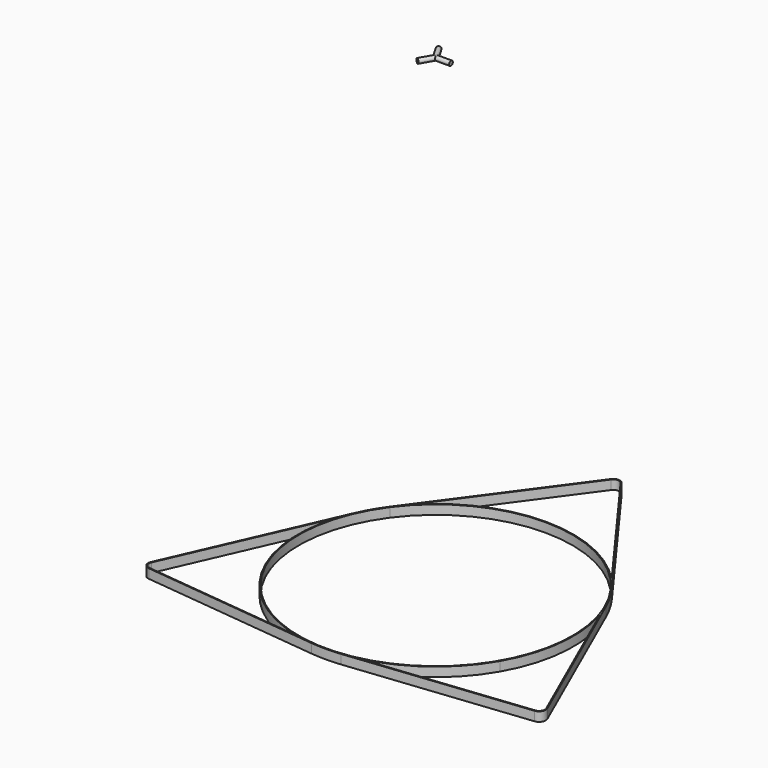
from build123d import *

# Parameters (mm, degrees)
SKETCH002_R      = 5
ARRAY004_COUNT   = 3
EXTRUDE050_DEPTH = 20
ARRAY005_COUNT   = 3


with BuildPart() as array007:
    # Sweep001: sweep along a path in Sketch
    with BuildLine(Plane.XY) as sweep001_path:
        Line((33.067608, 0), (0, 0))
    # Sketch002 → Sweep001 (sweep)
    with BuildSketch(Plane.YZ):
        with Locations((0, 490)):
            Circle(SKETCH002_R)
    sweep(path=sweep001_path.line)

    # Array004: Array007 ×3 about axis
    array004_axis = Axis((0, 0, 0), (0, 0, 1))


with BuildPart() as array007_1:
    add(array007.part)
    for i in range(1, ARRAY004_COUNT):
        add(array007.part.rotate(array004_axis, i * 360 / ARRAY004_COUNT))


with BuildPart() as fusion012:
    # Face006 → Extrude050 (new body)
    with BuildSketch(Plane(origin=(0, 60.26256, -535), x_dir=(0, 1, 0), z_dir=(0, 0, 1))):
        with BuildLine():
            Line((115.74369, -240.469956), (428.301503, -11.700719))
            ThreePointArc((428.301503, -11.700719), (434.23744, 0), (428.301503, 11.700719))
            Line((428.301503, 11.700719), (115.74369, 240.469956))
            ThreePointArc((115.74369, 240.469956), (-358.26256, 0), (115.74369, -240.469956))
        make_face()
        with BuildLine():
            Line((427.120253, -10.086827), (114.56244, -238.856064))
            ThreePointArc((114.56244, -238.856064), (-356.26256, 0), (114.56244, 238.856064))
            Line((114.56244, 238.856064), (427.120253, 10.086827))
            ThreePointArc((427.120253, 10.086827), (432.23744, 0), (427.120253, -10.086827))
        make_face(mode=Mode.SUBTRACT)
    extrude(amount=EXTRUDE050_DEPTH)

    # Array005: Fusion012 ×3 about axis
    array005_axis = Axis((0, 0, 0), (0, 0, 1))


with BuildPart() as fusion012_1:
    add(fusion012.part)
    for i in range(1, ARRAY005_COUNT):
        add(fusion012.part.rotate(array005_axis, i * 360 / ARRAY005_COUNT))

    # Fusion010: union Array007
    add(array007_1.part)


solid = fusion012_1.part
